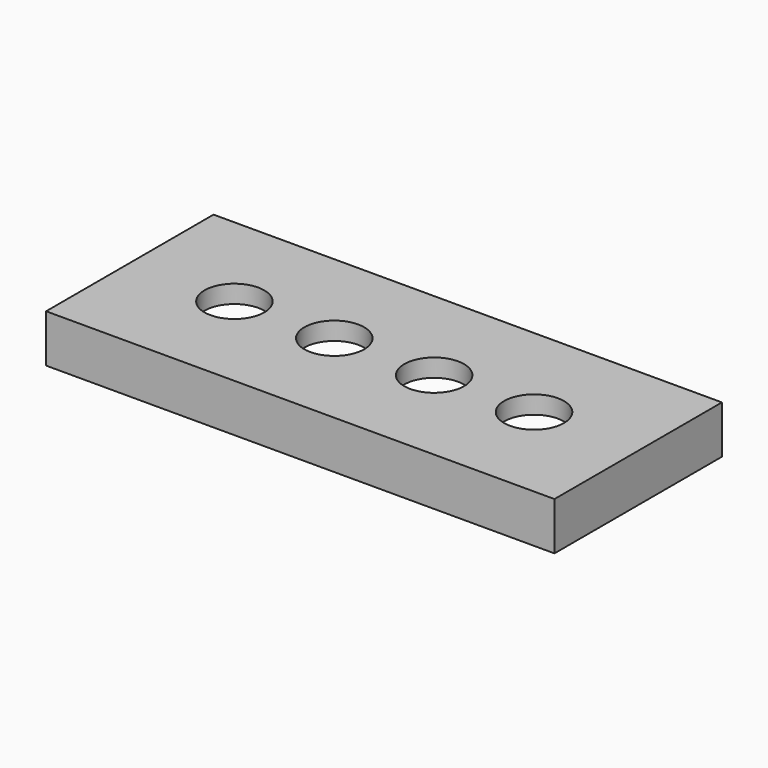
from build123d import *

# Parameters (mm, degrees)
F0_W     = 75
F0_H     = 25
F0_R     = 5
F1_DEPTH = 3
F0_W_2   = 85
F0_H_2   = 35
F2_DEPTH = 3
F3_W     = 85
F3_H     = 35
F3_W_2   = 81
F3_H_2   = 31
F4_DEPTH = 5


with BuildPart() as f1:
    # F0 (on Top) → F1 (new body)
    with BuildSketch(Plane.XY):
        with Locations((0.065177, 0.136048)):
            Rectangle(F0_W, F0_H)
        with Locations((-24.984823, 0.182369)):
            Circle(F0_R, mode=Mode.SUBTRACT)
        with Locations((-8.284823, 0.182369)):
            Circle(F0_R, mode=Mode.SUBTRACT)
        with Locations((8.415177, 0.182369)):
            Circle(F0_R, mode=Mode.SUBTRACT)
        with Locations((25.115177, 0.182369)):
            Circle(F0_R, mode=Mode.SUBTRACT)
    extrude(amount=F1_DEPTH)

    # F0 (on Top) → F2 (join)
    with BuildSketch(Plane.XY):
        with Locations((0.065177, 0.136048)):
            Rectangle(F0_W_2, F0_H_2)
        with Locations((0.065177, 0.136048)):
            Rectangle(F0_W, F0_H, mode=Mode.SUBTRACT)
    extrude(amount=F2_DEPTH)

    # F3 (on face) → F4 (join)
    with BuildSketch(Plane(origin=(0, 0, 0), x_dir=(1, 0, 0), z_dir=(0, 0, -1))):
        with Locations((0.065177, -0.136048)):
            Rectangle(F3_W, F3_H)
        with Locations((0.065177, -0.136048)):
            Rectangle(F3_W_2, F3_H_2, mode=Mode.SUBTRACT)
    extrude(amount=F4_DEPTH)


solid = f1.part
